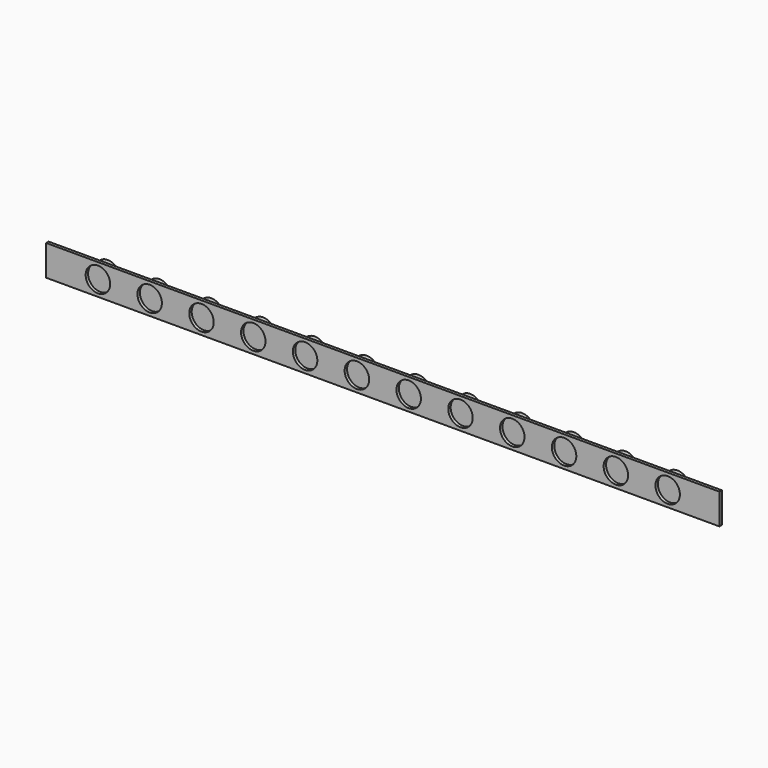
from build123d import *

# Parameters (mm, degrees)
F0_W     = 220
F0_H     = 10
F0_R     = 4
F1_DEPTH = 1
F2_DEPTH = 3


with BuildPart() as f1:
    # F0 (on Front) → F1 (new body)
    with BuildSketch(Plane.XZ):
        with Locations((110, 5)):
            Rectangle(F0_W, F0_H)
        with Locations((16.923077, 5)):
            Circle(F0_R, mode=Mode.SUBTRACT)
        with Locations((33.846154, 5)):
            Circle(F0_R, mode=Mode.SUBTRACT)
        with Locations((50.769231, 5)):
            Circle(F0_R, mode=Mode.SUBTRACT)
        with Locations((67.692308, 5)):
            Circle(F0_R, mode=Mode.SUBTRACT)
        with Locations((84.615385, 5)):
            Circle(F0_R, mode=Mode.SUBTRACT)
        with Locations((101.538462, 5)):
            Circle(F0_R, mode=Mode.SUBTRACT)
        with Locations((118.461538, 5)):
            Circle(F0_R, mode=Mode.SUBTRACT)
        with Locations((135.384615, 5)):
            Circle(F0_R, mode=Mode.SUBTRACT)
        with Locations((152.307692, 5)):
            Circle(F0_R, mode=Mode.SUBTRACT)
        with Locations((169.230769, 5)):
            Circle(F0_R, mode=Mode.SUBTRACT)
        with Locations((186.153846, 5)):
            Circle(F0_R, mode=Mode.SUBTRACT)
        with Locations((203.076923, 5)):
            Circle(F0_R, mode=Mode.SUBTRACT)
    extrude(amount=F1_DEPTH)

    # F0 (on Front) → F2 (join)
    with BuildSketch(Plane.XZ):
        with Locations((16.923077, 5)):
            Circle(F0_R)
        with Locations((33.846154, 5)):
            Circle(F0_R)
        with Locations((50.769231, 5)):
            Circle(F0_R)
        with Locations((67.692308, 5)):
            Circle(F0_R)
        with Locations((84.615385, 5)):
            Circle(F0_R)
        with Locations((101.538462, 5)):
            Circle(F0_R)
        with Locations((135.384615, 5)):
            Circle(F0_R)
        with Locations((118.461538, 5)):
            Circle(F0_R)
        with Locations((152.307692, 5)):
            Circle(F0_R)
        with Locations((203.076923, 5)):
            Circle(F0_R)
        with Locations((169.230769, 5)):
            Circle(F0_R)
        with Locations((186.153846, 5)):
            Circle(F0_R)
    extrude(amount=-F2_DEPTH)


solid = f1.part
